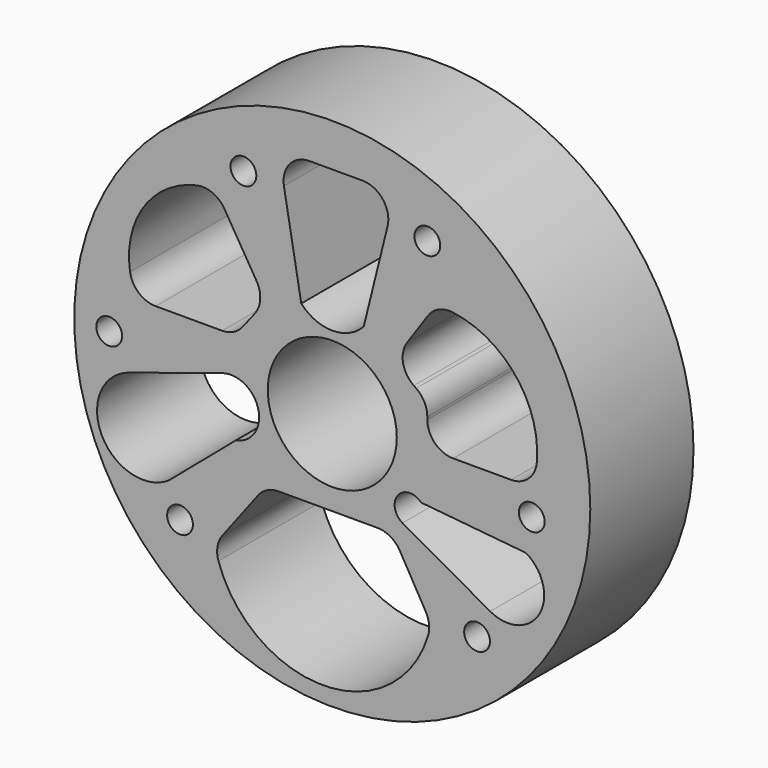
from build123d import *

# Parameters (mm, degrees)
F0_R     = 60
F0_R_2   = 3
F0_R_3   = 15
F1_DEPTH = 30


with BuildPart() as f1:
    # F0 (on Front) → F1 (new body)
    with BuildSketch(Plane.XZ):
        Circle(F0_R)
        with Locations((-35.401378, -33.233948)):
            Circle(F0_R_2, mode=Mode.SUBTRACT)
        with BuildLine():
            Line((-12.483101, -19.940369), (10.516899, -19.940369))
            ThreePointArc((10.516899, -19.940369), (13.523289, -20.747911), (15.720417, -22.953163))
            Line((15.720417, -22.953163), (21.751998, -33.459784))
            ThreePointArc((21.751998, -33.459784), (22.51142, -35.781151), (22.282739, -38.212853))
            ThreePointArc((22.282739, -38.212853), (-1.895302, -56.274409), (-26.469163, -38.755197))
            ThreePointArc((-26.469163, -38.755197), (-26.694895, -35.88137), (-25.554285, -33.233948))
            Line((-25.554285, -33.233948), (-17.261779, -22.312113))
            ThreePointArc((-17.261779, -22.312113), (-15.150541, -20.565914), (-12.483101, -19.940369))
        make_face(mode=Mode.SUBTRACT)
        with BuildLine():
            ThreePointArc((-25.57569, 0), (-17.203021, -4.661994), (-22.39679, -12.715598))
            Line((-22.39679, -12.715598), (-38.002294, -26.009176))
            ThreePointArc((-38.002294, -26.009176), (-53.620423, -21.803036), (-47.250003, -6.93578))
            Line((-47.250003, -6.93578), (-25.57569, 0))
        make_face(mode=Mode.SUBTRACT)
        with Locations((33.667434, -34.678902)):
            Circle(F0_R_2, mode=Mode.SUBTRACT)
        with BuildLine():
            ThreePointArc((16.327983, -17.05046), (15.252019, -11.740154), (20.662844, -11.457273))
            Line((20.662844, -11.457273), (44.998671, -13.827356))
            ThreePointArc((44.998671, -13.827356), (48.186477, -25.295435), (36.723992, -28.503295))
            Line((36.723992, -28.503295), (16.327983, -17.05046))
        make_face(mode=Mode.SUBTRACT)
        with Locations((46.383031, -6.068808)):
            Circle(F0_R_2, mode=Mode.SUBTRACT)
        with Locations((-51.873855, 0)):
            Circle(F0_R_2, mode=Mode.SUBTRACT)
        with BuildLine():
            Line((-18.010051, 14.654659), (-20.884113, 10.975861))
            ThreePointArc((-20.884113, 10.975861), (-22.981972, 9.27699), (-25.612258, 8.669726))
            Line((-25.612258, 8.669726), (-41.092021, 8.669726))
            ThreePointArc((-41.092021, 8.669726), (-44.989315, 10.107807), (-47.0184, 13.732693))
            ThreePointArc((-47.0184, 13.732693), (-43.773022, 28.201746), (-31.494693, 36.516107))
            ThreePointArc((-31.494693, 36.516107), (-27.83933, 36.174602), (-25.067187, 33.767627))
            Line((-25.067187, 33.767627), (-17.60701, 21.458334))
            ThreePointArc((-17.60701, 21.458334), (-16.748697, 17.993713), (-18.010051, 14.654659))
        make_face(mode=Mode.SUBTRACT)
        with Locations((-20.662844, 42.966518)):
            Circle(F0_R_2, mode=Mode.SUBTRACT)
        Circle(F0_R_3, mode=Mode.SUBTRACT)
        with BuildLine():
            ThreePointArc((18.963135, 11.921459), (16.459409, 15.771092), (17.41111, 20.263594))
            Line((17.41111, 20.263594), (22.259295, 27.328092))
            ThreePointArc((22.259295, 27.328092), (24.762361, 29.412708), (27.985799, 29.882196))
            ThreePointArc((27.985799, 29.882196), (42.683104, 21.611507), (47.564314, 5.468741))
            ThreePointArc((47.564314, 5.468741), (45.63834, 1.573514), (41.58788, 0))
            Line((41.58788, 0), (28.101831, 0))
            ThreePointArc((28.101831, 0), (23.859191, 1.757359), (22.101831, 6))
            Line((22.101831, 6), (22.101831, 6.608079))
            ThreePointArc((22.101831, 6.608079), (21.410802, 9.403581), (19.496887, 11.555159))
            Line((19.496887, 11.555159), (18.963135, 11.921459))
        make_face(mode=Mode.SUBTRACT)
        with BuildLine():
            Line((12.861297, 42.56715), (7.310784, 20.229358))
            ThreePointArc((7.310784, 20.229358), (0.050757, 17.019958), (-7.209271, 20.229358))
            Line((-7.209271, 20.229358), (-11.240784, 42.966518))
            ThreePointArc((-11.240784, 42.966518), (-9.931036, 47.868572), (-5.332932, 50.014036))
            Line((-5.332932, 50.014036), (7.038366, 50.014036))
            ThreePointArc((7.038366, 50.014036), (11.764957, 47.709891), (12.861297, 42.56715))
        make_face(mode=Mode.SUBTRACT)
        with Locations((22.107799, 42.56715)):
            Circle(F0_R_2, mode=Mode.SUBTRACT)
    extrude(amount=F1_DEPTH)


solid = f1.part
